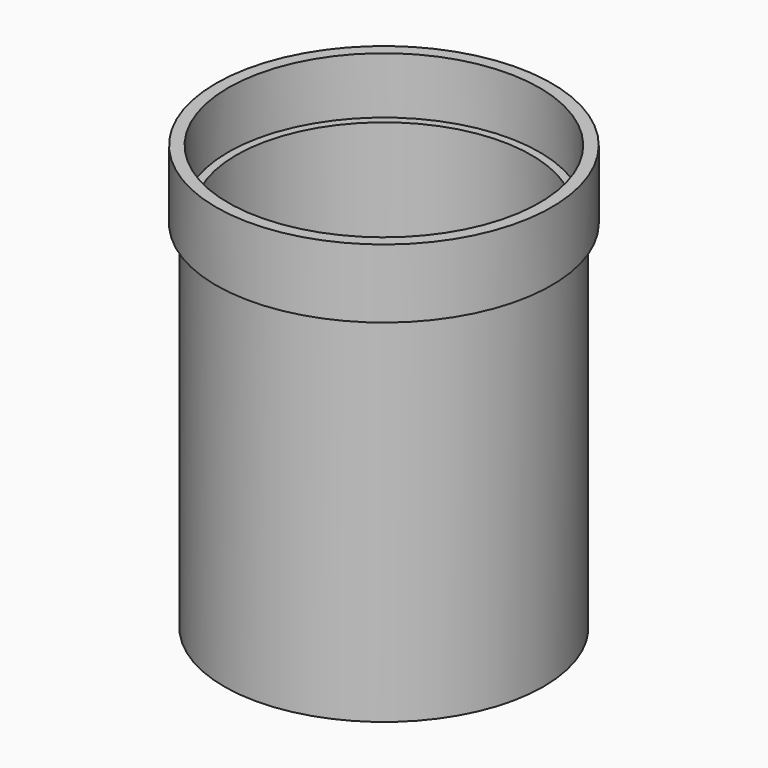
from build123d import *

# Parameters (mm, degrees)
THICKNESS_T = -3


with BuildPart() as part:
    # Sketch → Revolution (revolve)
    with BuildSketch(Plane.XZ):
        Polygon((0, 0), (-39.5, 0), (-39.5, 88), (-41.5, 88), (-41.5, 105), (0, 105), align=None)
    revolve(axis=Axis((0, 0, 0), (0, 0, 1)))

    # Thickness
    thickness_openings = [part.faces().sort_by_distance(p)[0] for p in [
        (0, 0, 105),
    ]]
    offset(amount=THICKNESS_T, openings=thickness_openings, kind=Kind.INTERSECTION)


solid = part.part
